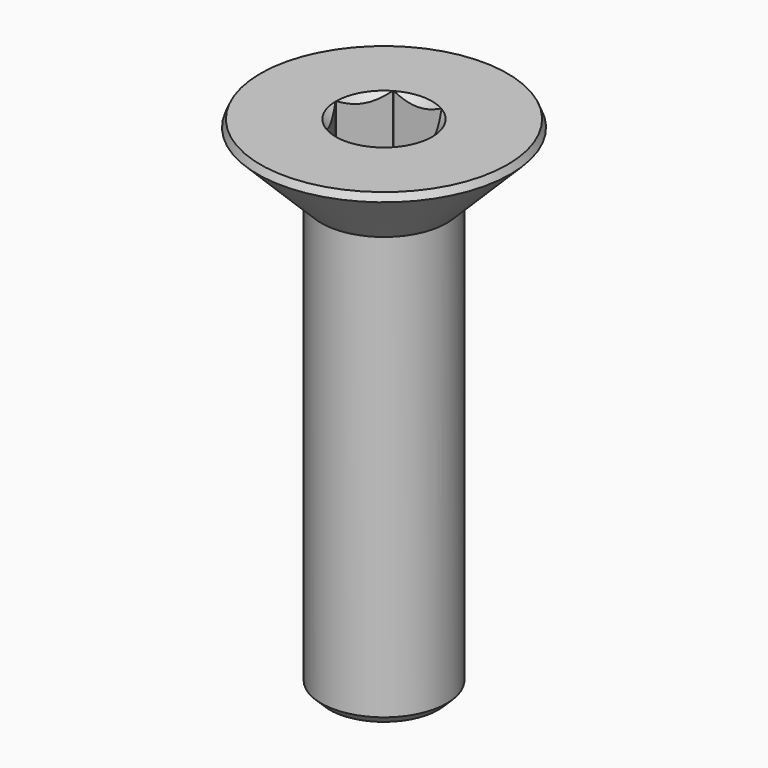
from build123d import *

# Parameters (mm, degrees)
SKETCH001_R     = 2.15
POCKET_DEPTH    = 3.119566
CHAMFER_SIZE    = 0.25
CHAMFER001_SIZE = 0.2


with BuildPart() as pocket:
    # Sketch003 → Revolution001 (revolve)
    with BuildSketch(Plane.XZ):
        Polygon((0, -2.118566), (1.15, -1.7), (1.15, 1), (0, 1), align=None)
    revolve(axis=Axis((0, 0, 0), (0, 0, 1)))

    # Sketch001 → Pocket (cut, through all)
    with BuildSketch(Plane(origin=(0, 0, 1), x_dir=(-1, 0, 0), z_dir=(0, 0, 1))):
        Circle(SKETCH001_R)
        Polygon((-0.57735, 1), (0.57735, 1), (1.154701, 0), (0.57735, -1), (-0.57735, -1), (-1.154701, 0), align=None, mode=Mode.SUBTRACT)
    extrude(amount=-POCKET_DEPTH, mode=Mode.SUBTRACT)


with BuildPart() as chamfer001:
    # Sketch → Revolution (revolve)
    with BuildSketch(Plane.XZ):
        Polygon((1.15, 0), (3.199999, 0), (1.5, -1.7), (1.5, -12), (0, -12), (0, -1.150001), align=None)
    revolve(axis=Axis((0, 0, 0), (0, 0, 1)))

    # Cut: cut Pocket
    add(pocket.part, mode=Mode.SUBTRACT)

    # Chamfer
    chamfer_edges = [chamfer001.edges().sort_by_distance(p)[0] for p in [
        (-3.199999, 0, 0),
    ]]
    chamfer(chamfer_edges, length=CHAMFER_SIZE)

    # Chamfer001
    chamfer001_edges = [chamfer001.edges().sort_by_distance(p)[0] for p in [
        (-1.5, 0, -12),
    ]]
    chamfer(chamfer001_edges, length=CHAMFER001_SIZE)


solid = chamfer001.part
